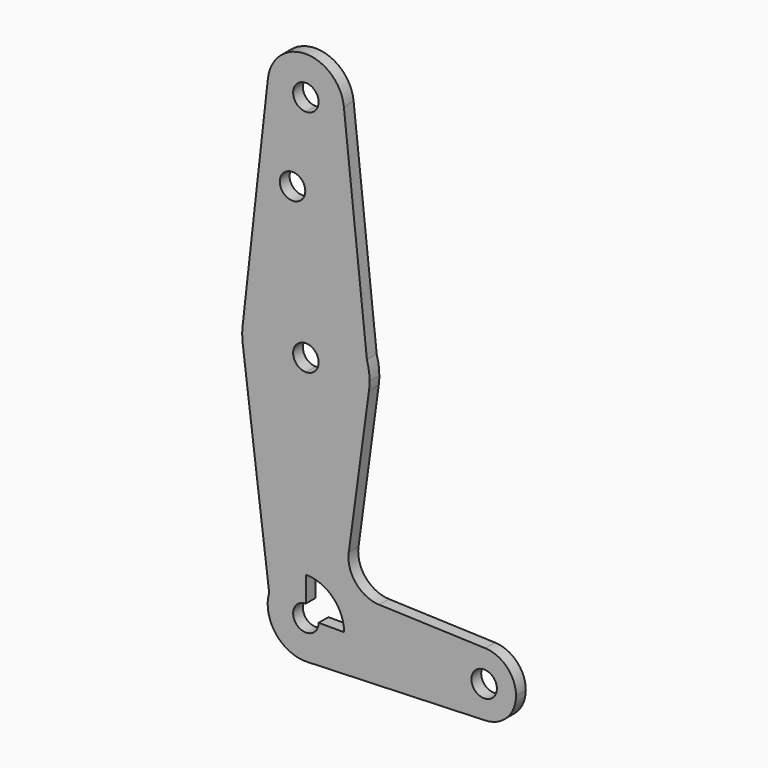
from build123d import *

# Parameters (mm, degrees)
F0_R     = 3.175
F1_DEPTH = 3.048


with BuildPart() as f1:
    # F0 (on Front) → F1 (new body)
    with BuildSketch(Plane.XZ):
        with BuildLine():
            ThreePointArc((-9.4660211047, 115.3583333333), (-7.0995158286, 107.95), (0, 104.775))
            ThreePointArc((0, 104.775), (6.7351920908, 107.5648079092), (9.525, 114.3))
            ThreePointArc((9.525, 114.3), (9.5114406143, 114.8080575177), (9.4708010622, 115.3146685371))
            ThreePointArc((9.4708010622, 115.3146685371), (0.0219628232, 123.8249746789), (-9.4660211047, 115.3583333333))
        make_face()
        with BuildLine():
            ThreePointArc((3.175, 114.3), (2.2450640303, 112.0549359697), (0, 111.125))
            ThreePointArc((0, 111.125), (-2.2450640303, 116.5450640303), (3.175, 114.3))
        make_face(mode=Mode.SUBTRACT)
        with BuildLine():
            ThreePointArc((9.525, 114.3), (6.7351920908, 107.5648079092), (0, 104.775))
            Line((0, 104.775), (0, 73.025))
            ThreePointArc((0, 73.025), (9.4940926332, 69.8731218682), (15.218204422, 61.6690573319))
            Line((15.218204422, 61.6690573319), (9.4708010622, 115.3146685371))
            ThreePointArc((9.4708010622, 115.3146685371), (9.5114406143, 114.8080575177), (9.525, 114.3))
        make_face()
        with BuildLine():
            Line((0, 73.025), (0, 104.775))
            ThreePointArc((0, 104.775), (-7.0995158286, 107.95), (-9.4660211047, 115.3583333333))
            Line((-9.4660211047, 115.3583333333), (-15.7767018412, 58.9138888889))
            ThreePointArc((-15.7767018412, 58.9138888889), (-10.5833333333, 68.9825263809), (0, 73.025))
        make_face()
        with Locations((-3.3239908516, 93.6752)):
            Circle(F0_R, mode=Mode.SUBTRACT)
        with BuildLine():
            ThreePointArc((15.218204422, 61.6690573319), (9.4940926332, 69.8731218682), (0, 73.025))
            Line((0, 73.025), (0, 60.325))
            ThreePointArc((0, 60.325), (2.2450640303, 59.3950640303), (3.175, 57.15))
            ThreePointArc((3.175, 57.15), (2.2450640303, 54.9049359697), (0, 53.975))
            Line((0, 53.975), (0, 41.275))
            ThreePointArc((0, 41.275), (10.4426154092, 45.1931020572), (15.7305558053, 55.013357995))
            ThreePointArc((15.7305558053, 55.013357995), (15.8388477865, 56.0792405519), (15.875, 57.15))
            ThreePointArc((15.875, 57.15), (15.709943033, 59.4332684687), (15.218204422, 61.6690573319))
        make_face()
        with BuildLine():
            Line((0, 60.325), (0, 73.025))
            ThreePointArc((0, 73.025), (-10.5833333333, 68.9825263809), (-15.7767018412, 58.9138888889))
            ThreePointArc((-15.7767018412, 58.9138888889), (-15.8746421467, 57.0434086533), (-15.7515928753, 55.1744122671))
            ThreePointArc((-15.7515928753, 55.1744122671), (-10.5036462655, 45.2466794494), (0, 41.275))
            Line((0, 41.275), (0, 53.975))
            ThreePointArc((0, 53.975), (-3.175, 57.15), (0, 60.325))
        make_face()
        with BuildLine():
            ThreePointArc((0, 41.275), (-10.5036462655, 45.2466794494), (-15.7515928753, 55.1744122671))
            Line((-15.7515928753, 55.1744122671), (-9.1593596287, 2.6137628417))
            ThreePointArc((-9.1593596287, 2.6137628417), (-5.7371392668, 7.603345187), (0, 9.525))
            Line((0, 9.525), (0, 41.275))
        make_face()
        with BuildLine():
            ThreePointArc((15.7305558053, 55.013357995), (10.4426154092, 45.1931020572), (0, 41.275))
            Line((0, 41.275), (0, 9.525))
            ThreePointArc((0, 9.525), (6.7351920908, 6.7351920908), (9.525, 0))
            Line((9.525, 0), (36.5125, 0))
            ThreePointArc((36.5125, 0), (38.9384772185, 5.7120069047), (44.7334821429, 7.9324362036))
            Line((44.7334821429, 7.9324362036), (18.2825002652, 8.877717178))
            ThreePointArc((18.2825002652, 8.877717178), (12.4859748767, 11.7009635143), (10.6885736323, 17.8928755956))
            Line((10.6885736323, 17.8928755956), (15.7305558053, 55.013357995))
        make_face()
        with BuildLine():
            ThreePointArc((0, 9.525), (-5.7371392668, 7.603345187), (-9.1593596287, 2.6137628417))
            ThreePointArc((-9.1593596287, 2.6137628417), (-7.4996671765, -5.8720198604), (0.3401785714, -9.5189234444))
            ThreePointArc((0.3401785714, -9.5189234444), (6.8544082857, -6.6138273378), (9.525, 0))
            Line((9.525, 0), (3.175, 0))
            ThreePointArc((3.175, 0), (-2.2450640303, -2.2450640303), (0, 3.175))
            Line((0, 3.175), (0, 9.525))
        make_face()
        with BuildLine():
            ThreePointArc((9.525, 0), (6.8544082857, -6.6138273378), (0.3401785714, -9.5189234444))
            Line((0.3401785714, -9.5189234444), (44.7334821429, -7.9324362036))
            ThreePointArc((44.7334821429, -7.9324362036), (38.9384772185, -5.7120069047), (36.5125, 0))
            Line((36.5125, 0), (9.525, 0))
        make_face()
        with BuildLine():
            ThreePointArc((36.5125, 0), (38.9384772185, -5.7120069047), (44.7334821429, -7.9324362036))
            ThreePointArc((44.7334821429, -7.9324362036), (50.1620069047, -5.5115227815), (52.3875, 0))
            ThreePointArc((52.3875, 0), (50.1620069047, 5.5115227815), (44.7334821429, 7.9324362036))
            ThreePointArc((44.7334821429, 7.9324362036), (38.9384772185, 5.7120069047), (36.5125, 0))
        make_face()
        with BuildLine():
            ThreePointArc((47.625, 0), (44.45, -3.175), (41.275, 0))
            ThreePointArc((41.275, 0), (44.45, 3.175), (47.625, 0))
        make_face(mode=Mode.SUBTRACT)
    extrude(amount=F1_DEPTH)


solid = f1.part
